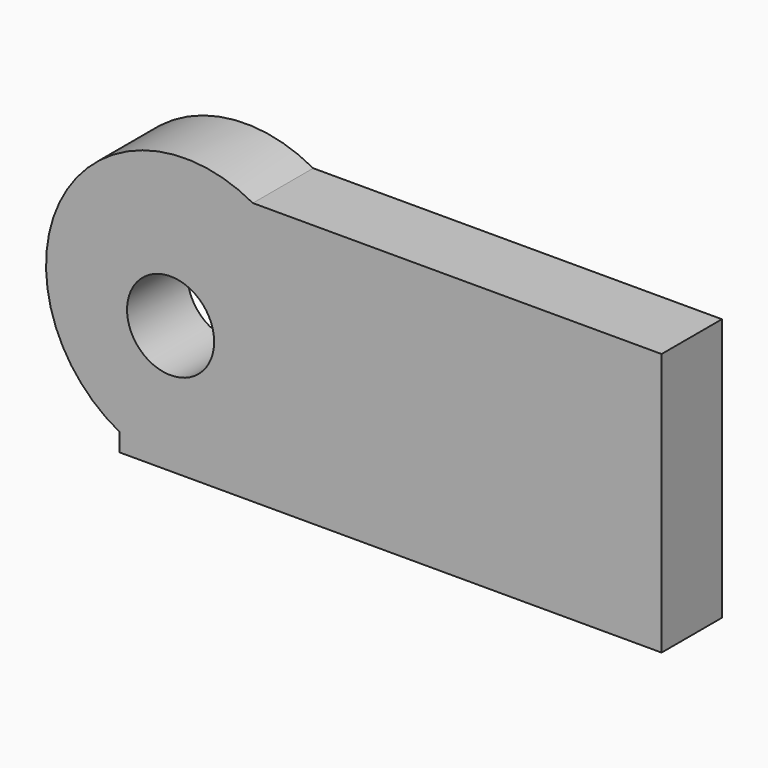
from build123d import *

# Parameters (mm, degrees)
F0_R     = 14.661105288
F1_DEPTH = 25.4


with BuildPart() as f1:
    # F0 (on Front) → F1 (new body)
    with BuildSketch(Plane.XZ):
        with BuildLine():
            Line((-122.9979321361, -31.1395347035), (-122.9979321361, 51.2862093747))
            Line((-122.9979321361, 51.2862093747), (-78.072603986, 51.2862093747))
            ThreePointArc((-78.072603986, 51.2862093747), (-141.9933466372, 32.6696487834), (-122.9979321361, -31.1395347035))
        make_face()
        with BuildLine():
            Line((-78.072603986, 51.2862093747), (-122.9979321361, 51.2862093747))
            Line((-122.9979321361, 51.2862093747), (-122.9979321361, -31.1395347035))
            ThreePointArc((-122.9979321361, -31.1395347035), (-76.693666618, -30.0800117713), (-53.8420287336, 10.2065894753))
            ThreePointArc((-53.8420287336, 10.2065894753), (-60.3509770341, 34.0532661208), (-78.072603986, 51.2862093747))
        make_face()
        with Locations((-105.7746484876, 5.8953254484)):
            Circle(F0_R, mode=Mode.SUBTRACT)
        with BuildLine():
            Line((59.5510303974, 51.2862093747), (-78.072603986, 51.2862093747))
            ThreePointArc((-78.072603986, 51.2862093747), (-60.3509770341, 34.0532661208), (-53.8420287336, 10.2065894753))
            ThreePointArc((-53.8420287336, 10.2065894753), (-76.693666618, -30.0800117713), (-122.9979321361, -31.1395347035))
            Line((-122.9979321361, -31.1395347035), (-122.9979321361, -37.2208170593))
            Line((-122.9979321361, -37.2208170593), (59.5510303974, -37.2208170593))
            Line((59.5510303974, -37.2208170593), (59.5510303974, 51.2862093747))
        make_face()
    extrude(amount=F1_DEPTH)


solid = f1.part
